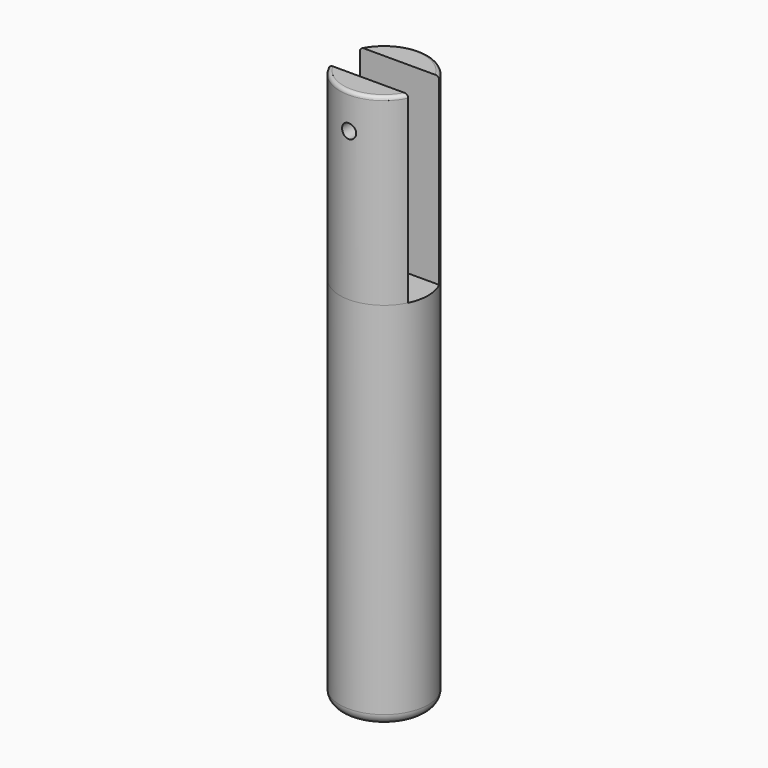
from build123d import *

# Parameters (mm, degrees)
F0_R     = 12.5
F1_DEPTH = 105
F3_DEPTH = 52
F4_R     = 3
F6_D     = 4
F6_DEPTH = 20
F6_TIP   = 1.2017212381
F7_D     = 4
F7_DEPTH = 20
F7_START = 11
F7_TIP   = 1.2017212381
F8_R     = 1


with BuildPart() as f1:
    # F0 (on Top) → F1 (new body)
    with BuildSketch(Plane.XY):
        Circle(F0_R)
    extrude(amount=F1_DEPTH)

    # F2 (on face) → F3 (join)
    with BuildSketch(Plane.XY.offset(105)):
        with BuildLine():
            Line((11.2334422785, -5.4826795069), (-11.2334422785, -5.4826795069))
            ThreePointArc((-11.2334422785, -5.4826795069), (0, -12.5), (11.2334422785, -5.4826795069))
        make_face()
        with BuildLine():
            ThreePointArc((11.2164688996, 5.5173204931), (0, 12.5), (-11.2164688996, 5.5173204931))
            Line((-11.2164688996, 5.5173204931), (11.2164688996, 5.5173204931))
        make_face()
    extrude(amount=F3_DEPTH)

    # F4
    f4_edges = [f1.edges().sort_by_distance(p)[0] for p in [
        (-12.5, 0, 0),
    ]]
    fillet(f4_edges, radius=F4_R)

    # F6 (one way)
    with BuildSketch(Plane.XZ.offset(-5.5173204931)):
        with Locations((0, 147)):
            Circle(F6_D / 2)
    extrude(amount=-F6_DEPTH, mode=Mode.SUBTRACT)
    with Locations(Plane.XZ.offset(-5.5173204931)):
        with Locations((0, 147)):
            with Locations((0, 0, -(F6_DEPTH + F6_TIP / 2))):  # 118° drill point
                Cone(0, F6_D / 2, F6_TIP, mode=Mode.SUBTRACT)

    # F7
    # its depths count from where the whole tool has entered the part; down to there all is cleared
    with Locations(Plane(origin=(0, 5.5173204931, 0), x_dir=(1, 0, 0), z_dir=(0, 1, 0)).offset(-F7_START)):
        with Locations((0, -147)):
            Hole(F7_D / 2, depth=F7_DEPTH)
            with Locations((0, 0, -(F7_DEPTH + F7_TIP / 2))):  # 118° drill point
                Cone(0, F7_D / 2, F7_TIP, mode=Mode.SUBTRACT)

    # F8
    f8_edges = [f1.edges().sort_by_distance(p)[0] for p in [
        (0, 12.5, 157),
        (0, -12.5, 157),
    ]]
    fillet(f8_edges, radius=F8_R)


solid = f1.part
